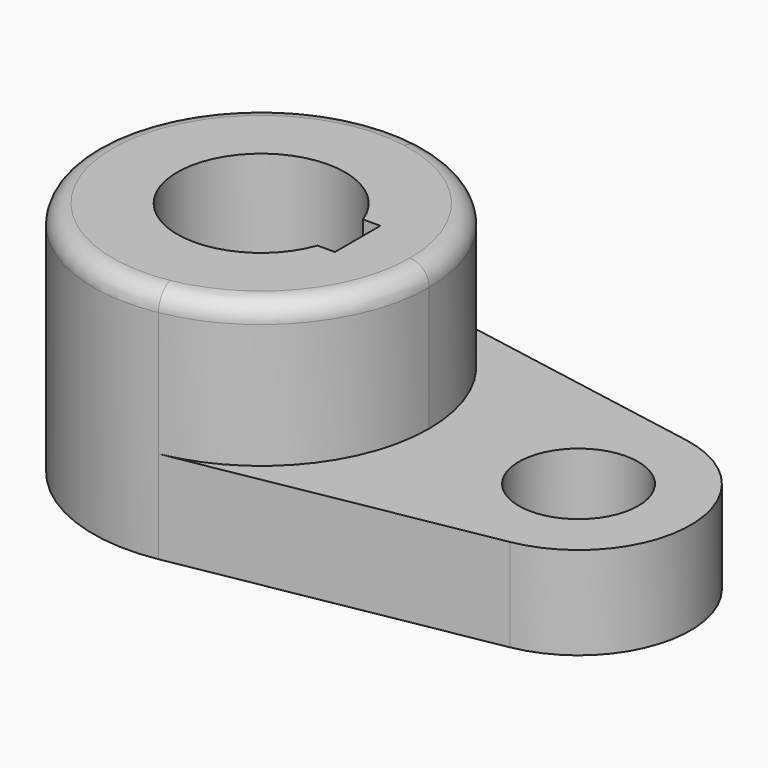
from build123d import *

# Parameters (mm, degrees)
F1_DEPTH = 40.2336
F0_R     = 10.16
F2_DEPTH = 15.7734
F3_R     = 3.302


with BuildPart() as f1:
    # F0 (on Top) → F1 (new body)
    with BuildSketch(Plane.XY):
        with BuildLine():
            ThreePointArc((5.042647, -28.126541), (21.916025, -18.336262), (28.575, 0))
            ThreePointArc((28.575, 0), (21.916025, 18.336262), (5.042647, 28.126541))
            ThreePointArc((5.042647, 28.126541), (-28.575, 0), (5.042647, -28.126541))
        make_face()
        with BuildLine():
            ThreePointArc((13.447765, -4.826), (-14.2875, 0), (13.447765, 4.826))
            Line((13.447765, 4.826), (16.4084, 4.826))
            Line((16.4084, 4.826), (16.4084, -4.826))
            Line((16.4084, -4.826), (13.447765, -4.826))
        make_face(mode=Mode.SUBTRACT)
    extrude(amount=F1_DEPTH)

    # F0 (on Top) → F2 (join)
    with BuildSketch(Plane.XY):
        with BuildLine():
            ThreePointArc((5.042647, -28.126541), (21.916025, -18.336262), (28.575, 0))
            ThreePointArc((28.575, 0), (21.916025, 18.336262), (5.042647, 28.126541))
            ThreePointArc((5.042647, 28.126541), (-28.575, 0), (5.042647, -28.126541))
        make_face()
        with BuildLine():
            ThreePointArc((13.447765, -4.826), (-14.2875, 0), (13.447765, 4.826))
            Line((13.447765, 4.826), (16.4084, 4.826))
            Line((16.4084, 4.826), (16.4084, -4.826))
            Line((16.4084, -4.826), (13.447765, -4.826))
        make_face(mode=Mode.SUBTRACT)
        with BuildLine():
            ThreePointArc((5.042647, 28.126541), (21.916025, 18.336262), (28.575, 0))
            ThreePointArc((28.575, 0), (21.916025, -18.336262), (5.042647, -28.126541))
            Line((5.042647, -28.126541), (57.336765, -18.751028))
            ThreePointArc((57.336765, -18.751028), (73.025, 0), (57.336765, 18.751028))
            Line((57.336765, 18.751028), (5.042647, 28.126541))
        make_face()
        with Locations((53.975, 0)):
            Circle(F0_R, mode=Mode.SUBTRACT)
    extrude(amount=F2_DEPTH)

    # F3
    f3_edges = [f1.edges().sort_by_distance(p)[0] for p in [
        (-5.042647, 28.126541, 40.2336),
    ]]
    fillet(f3_edges, radius=F3_R)


solid = f1.part
